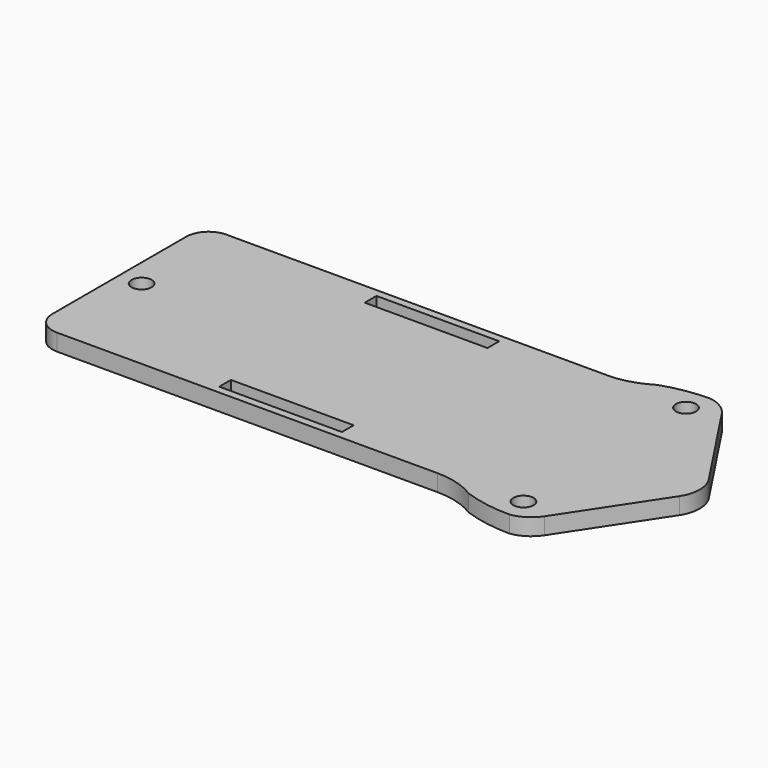
from build123d import *

# Parameters (mm, degrees)
F0_W     = 22
F0_H     = 2.627969
F0_R     = 1.8
F1_DEPTH = 3


with BuildPart() as f1:
    # F0 (on Top) → F1 (new body)
    with BuildSketch(Plane.XY):
        with BuildLine():
            Line((-70.846429, 19), (-101.2, 19))
            ThreePointArc((-101.2, 19), (-104.028427, 17.828427), (-105.2, 15))
            Line((-105.2, 15), (-105.2, -15))
            ThreePointArc((-105.2, -15), (-104.028427, -17.828427), (-101.2, -19))
            Line((-101.2, -19), (-70.846429, -19))
            Line((-70.846429, -19), (-32.929577, -19))
            ThreePointArc((-32.929577, -19), (-29.172307, -19.531094), (-25.709437, -21.082761))
            ThreePointArc((-25.709437, -21.082761), (-21.550048, -22.143225), (-17.272454, -22.5))
            ThreePointArc((-17.272454, -22.5), (-14.912775, -21.629956), (-13.117664, -19.868527))
            Line((-13.117664, -19.868527), (-2.182587, -3.305832))
            ThreePointArc((-2.182587, -3.305832), (-1.18973, 0), (-2.182587, 3.305832))
            Line((-2.182587, 3.305832), (-13.117664, 19.868527))
            ThreePointArc((-13.117664, 19.868527), (-14.912775, 21.629956), (-17.272454, 22.5))
            ThreePointArc((-17.272454, 22.5), (-21.550048, 22.143225), (-25.709437, 21.082761))
            ThreePointArc((-25.709437, 21.082761), (-29.172307, 19.531094), (-32.929577, 19))
            Line((-32.929577, 19), (-70.846429, 19))
        make_face()
        with Locations((-62.2, -16.299169)):
            Rectangle(F0_W, F0_H, mode=Mode.SUBTRACT)
        with Locations((-18.2, -18.2)):
            Circle(F0_R, mode=Mode.SUBTRACT)
        with Locations((-101.2, 0)):
            Circle(F0_R, mode=Mode.SUBTRACT)
        with Locations((-62.2, 16.299169)):
            Rectangle(F0_W, F0_H, mode=Mode.SUBTRACT)
        with Locations((-18.2, 18.2)):
            Circle(F0_R, mode=Mode.SUBTRACT)
    extrude(amount=F1_DEPTH)


solid = f1.part
